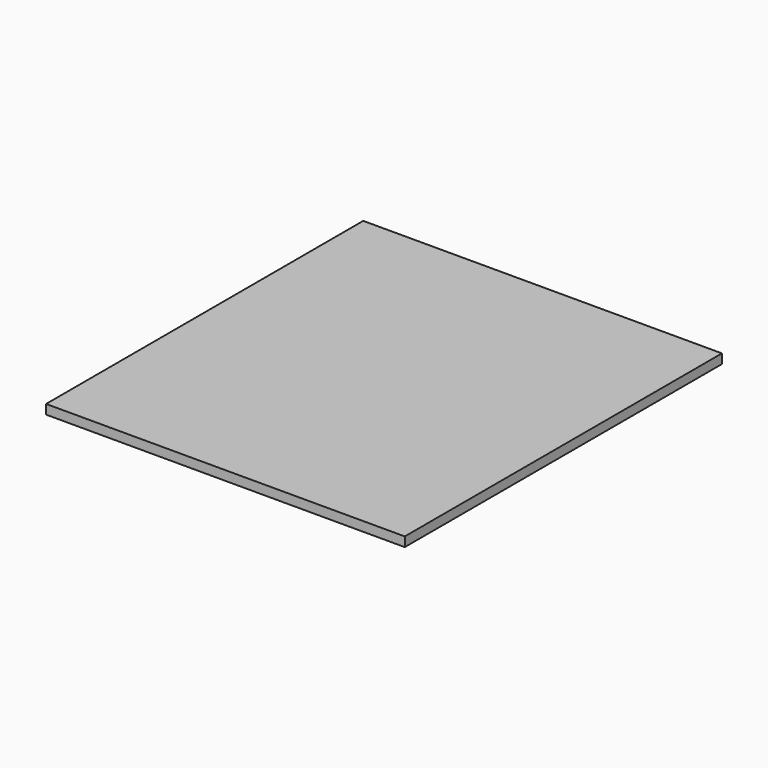
from build123d import *

# Parameters (mm, degrees)
F4_W     = 1900
F4_H     = 2100
F5_DEPTH = 50


with BuildPart() as f5:
    # F4 (on Top) → F5 (new body, through all)
    with BuildSketch(Plane.XY):
        Rectangle(F4_W, F4_H)
    extrude(amount=-F5_DEPTH)


solid = f5.part
